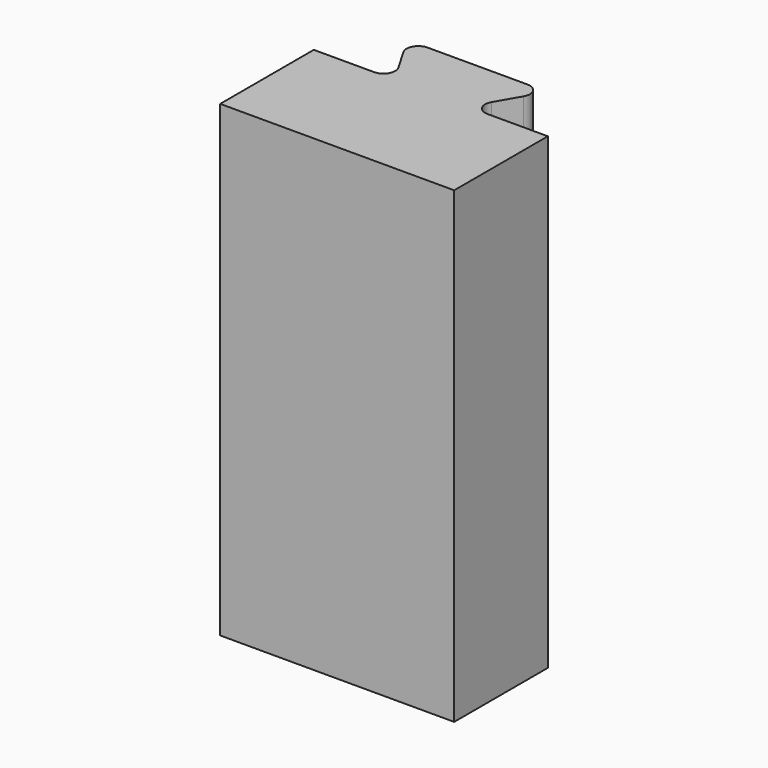
from build123d import *

# Parameters (mm, degrees)
F1_DEPTH = 10
F2_R     = 0.25


with BuildPart() as f1:
    # F0 (on Top) → F1 (new body)
    with BuildSketch(Plane.XY):
        Polygon((0, 2.5), (0, 0), (5, 0), (5, 2.5), (3.278312, 2.5), (1.721688, 2.5), align=None)
        Polygon((1, 3.75), (1.721688, 2.5), (3.278312, 2.5), (4, 3.75), align=None)
    extrude(amount=F1_DEPTH)

    # F2
    f2_edges = [f1.edges().sort_by_distance(p)[0] for p in [
        (1.721688, 2.5, 5),
        (3.278312, 2.5, 5),
        (4, 3.75, 5),
        (1, 3.75, 5),
    ]]
    fillet(f2_edges, radius=F2_R)


solid = f1.part
